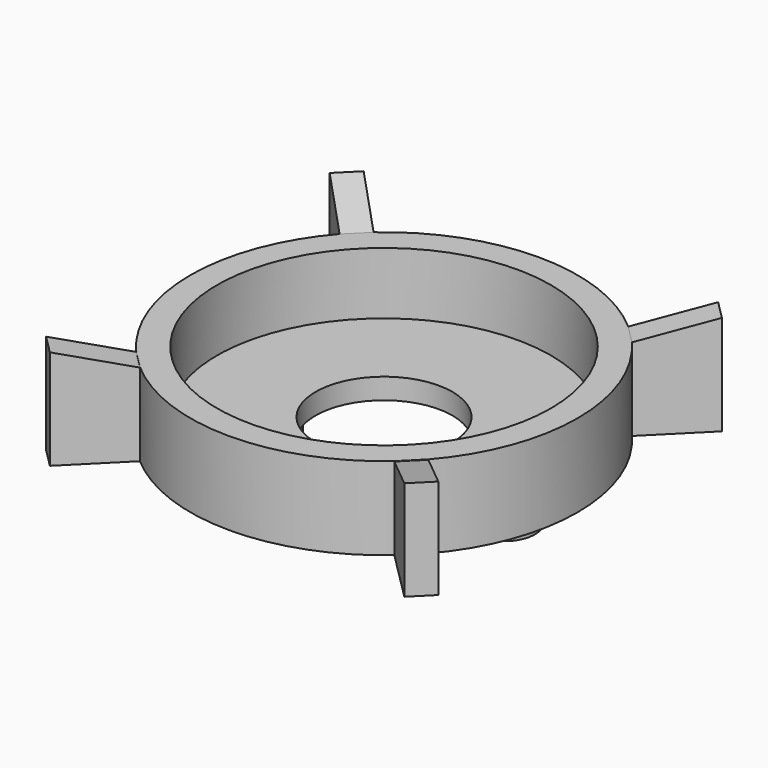
from build123d import *

# Parameters (mm, degrees)
F0_R     = 12.5
F0_R_2   = 2.3
F1_DEPTH = 1.56
F2_DEPTH = 6.2
F3_DEPTH = 7.48
F4_DEPTH = 2.5
F6_DEPTH = 5
F7_COUNT = 4


with BuildPart() as f1:
    # F0 (on Top) → F1 (new body)
    with BuildSketch(Plane.XY):
        with BuildLine():
            ThreePointArc((10.9357430539, -9.5215294916), (13.5797325872, -5.083390882), (14.5, 0))
            ThreePointArc((14.5, 0), (13.5797325872, 5.083390882), (10.9357430539, 9.5215294916))
            ThreePointArc((10.9357430539, 9.5215294916), (10.2530483272, 10.2530483272), (9.5215294916, 10.9357430539))
            ThreePointArc((9.5215294916, 10.9357430539), (0, 14.5), (-9.5215294916, 10.9357430539))
            ThreePointArc((-9.5215294916, 10.9357430539), (-10.2530483272, 10.2530483272), (-10.9357430539, 9.5215294916))
            ThreePointArc((-10.9357430539, 9.5215294916), (-14.5, 0), (-10.9357430539, -9.5215294916))
            ThreePointArc((-10.9357430539, -9.5215294916), (-10.2530483272, -10.2530483272), (-9.5215294916, -10.9357430539))
            ThreePointArc((-9.5215294916, -10.9357430539), (0, -14.5), (9.5215294916, -10.9357430539))
            ThreePointArc((9.5215294916, -10.9357430539), (10.2530483272, -10.2530483272), (10.9357430539, -9.5215294916))
        make_face()
        Circle(F0_R, mode=Mode.SUBTRACT)
        Circle(F0_R)
        with Locations((-9, 0)):
            Circle(F0_R_2, mode=Mode.SUBTRACT)
        with BuildLine():
            ThreePointArc((-5.12, 0), (0, 5.12), (5.12, 0))
            ThreePointArc((5.12, 0), (0, -5.12), (-5.12, 0))
        make_face(mode=Mode.SUBTRACT)
        with BuildLine():
            ThreePointArc((11.3, 0), (9, -2.3), (6.7, 0))
            ThreePointArc((6.7, 0), (9, 2.3), (11.3, 0))
        make_face(mode=Mode.SUBTRACT)
        with Locations((-9, 0)):
            Circle(F0_R_2)
        with BuildLine():
            ThreePointArc((11.3, 0), (9, 2.3), (6.7, 0))
            ThreePointArc((6.7, 0), (9, -2.3), (11.3, 0))
        make_face()
    extrude(amount=F1_DEPTH)

    # F0 (on Top) → F2 (join)
    with BuildSketch(Plane.XY):
        with BuildLine():
            ThreePointArc((10.9357430539, -9.5215294916), (13.5797325872, -5.083390882), (14.5, 0))
            ThreePointArc((14.5, 0), (13.5797325872, 5.083390882), (10.9357430539, 9.5215294916))
            ThreePointArc((10.9357430539, 9.5215294916), (10.2530483272, 10.2530483272), (9.5215294916, 10.9357430539))
            ThreePointArc((9.5215294916, 10.9357430539), (0, 14.5), (-9.5215294916, 10.9357430539))
            ThreePointArc((-9.5215294916, 10.9357430539), (-10.2530483272, 10.2530483272), (-10.9357430539, 9.5215294916))
            ThreePointArc((-10.9357430539, 9.5215294916), (-14.5, 0), (-10.9357430539, -9.5215294916))
            ThreePointArc((-10.9357430539, -9.5215294916), (-10.2530483272, -10.2530483272), (-9.5215294916, -10.9357430539))
            ThreePointArc((-9.5215294916, -10.9357430539), (0, -14.5), (9.5215294916, -10.9357430539))
            ThreePointArc((9.5215294916, -10.9357430539), (10.2530483272, -10.2530483272), (10.9357430539, -9.5215294916))
        make_face()
        Circle(F0_R, mode=Mode.SUBTRACT)
    extrude(amount=F2_DEPTH)

    # F0 (on Top) → F3 (join)
    with BuildSketch(Plane.XY):
        with BuildLine():
            Line((-13.2691954318, -14.6834089942), (-9.5215294916, -10.9357430539))
            ThreePointArc((-9.5215294916, -10.9357430539), (-10.2530483272, -10.2530483272), (-10.9357430539, -9.5215294916))
            Line((-10.9357430539, -9.5215294916), (-14.6834089942, -13.2691954318))
            Line((-14.6834089942, -13.2691954318), (-13.2691954318, -14.6834089942))
        make_face()
        with BuildLine():
            ThreePointArc((-10.9357430539, 9.5215294916), (-10.2530483272, 10.2530483272), (-9.5215294916, 10.9357430539))
            Line((-9.5215294916, 10.9357430539), (-13.2691954318, 14.6834089942))
            Line((-13.2691954318, 14.6834089942), (-14.6834089942, 13.2691954318))
            Line((-14.6834089942, 13.2691954318), (-10.9357430539, 9.5215294916))
        make_face()
        with BuildLine():
            ThreePointArc((9.5215294916, 10.9357430539), (10.2530483272, 10.2530483272), (10.9357430539, 9.5215294916))
            Line((10.9357430539, 9.5215294916), (14.6834089942, 13.2691954318))
            Line((14.6834089942, 13.2691954318), (13.2691954318, 14.6834089942))
            Line((13.2691954318, 14.6834089942), (9.5215294916, 10.9357430539))
        make_face()
        with BuildLine():
            Line((14.6834089942, -13.2691954318), (10.9357430539, -9.5215294916))
            ThreePointArc((10.9357430539, -9.5215294916), (10.2530483272, -10.2530483272), (9.5215294916, -10.9357430539))
            Line((9.5215294916, -10.9357430539), (13.2691954318, -14.6834089942))
            Line((13.2691954318, -14.6834089942), (14.6834089942, -13.2691954318))
        make_face()
    extrude(amount=F3_DEPTH)

    # F0 (on Top) → F4 (join)
    with BuildSketch(Plane.XY):
        with Locations((-9, 0)):
            Circle(F0_R_2)
        with BuildLine():
            ThreePointArc((11.3, 0), (9, 2.3), (6.7, 0))
            ThreePointArc((6.7, 0), (9, -2.3), (11.3, 0))
        make_face()
    extrude(amount=-F4_DEPTH)

    # F7: F6 ×4 about axis
    f7_axis = Axis((0, 0, 6.2), (0, 0, 1))


with BuildPart() as f6:
    # F5 (on face) → F6 (new body)
    with BuildSketch(Plane(origin=(0.7071067812, -0.7071067812, 0), x_dir=(0.7071067812, 0.7071067812, 0), z_dir=(0.7071067812, -0.7071067812, 0))):
        Polygon((-14.4654761415, 7.48), (-19.7654761415, 7.48), (-14.4654761415, 6.17), (-14.4654761415, 6.2), align=None)
    extrude(amount=-F6_DEPTH)


with BuildPart() as f1_1:
    add(f1.part)
    for i in range(1, F7_COUNT):
        add(f6.part.rotate(f7_axis, i * 360 / F7_COUNT), mode=Mode.SUBTRACT)

    # F7#seed: cut F6
    add(f6.part, mode=Mode.SUBTRACT)


solid = f1_1.part
